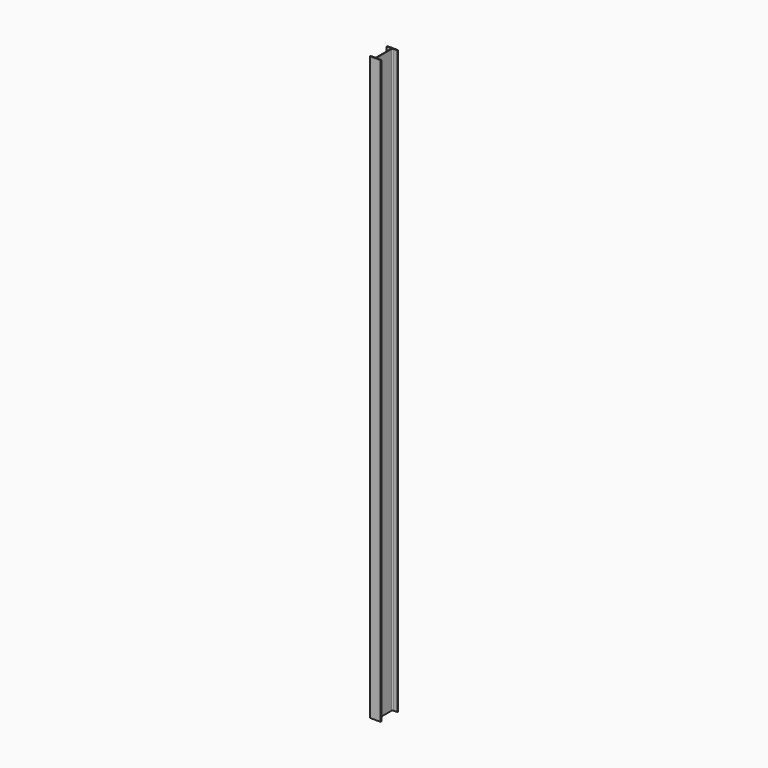
from build123d import *

# Parameters (mm, degrees)
F1_DEPTH = 8000


with BuildPart() as f1:
    # F0 (on Top) → F1 (new body)
    with BuildSketch(Plane.XY):
        with BuildLine():
            Line((3.505, -124.3), (3.505, 0))
            Line((3.505, 0), (3.505, 124.3))
            ThreePointArc((3.505, 124.3), (7.898398, 134.906602), (18.505, 139.3))
            Line((18.505, 139.3), (75.1, 139.3))
            Line((75.1, 139.3), (75.1, 150))
            Line((75.1, 150), (-74.9, 150))
            Line((-74.9, 150), (-74.9, 139.3))
            Line((-74.9, 139.3), (-18.305, 139.3))
            ThreePointArc((-18.305, 139.3), (-7.698398, 134.906602), (-3.305, 124.3))
            Line((-3.305, 124.3), (-3.305, 0))
            Line((-3.305, 0), (-3.305, -124.3))
            ThreePointArc((-3.305, -124.3), (-7.698398, -134.906602), (-18.305, -139.3))
            Line((-18.305, -139.3), (-74.9, -139.3))
            Line((-74.9, -139.3), (-74.9, -150))
            Line((-74.9, -150), (75.1, -150))
            Line((75.1, -150), (75.1, -139.3))
            Line((75.1, -139.3), (18.505, -139.3))
            ThreePointArc((18.505, -139.3), (7.898398, -134.906602), (3.505, -124.3))
        make_face()
    extrude(amount=F1_DEPTH)


solid = f1.part
